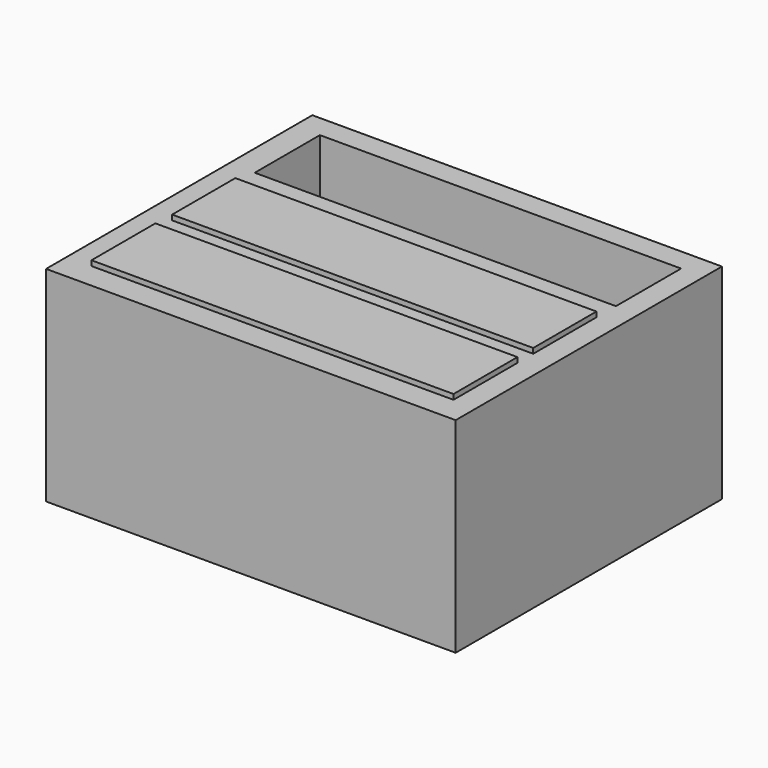
from build123d import *

# Parameters (mm, degrees)
SKETCH_W      = 800
SKETCH_H      = 400
PAD_DEPTH     = 650
SKETCH001_W   = 705.447479
SKETCH001_H   = 159.053192
POCKET_DEPTH  = 400.001
SKETCH002_W   = 696.846951
SKETCH002_H   = 149.011963
SKETCH002_W_2 = 692.598503
SKETCH002_H_2 = 175.711151
PAD001_DEPTH  = 5
SKETCH003_W   = 705.267067
SKETCH003_H   = 154.277191
SKETCH003_W_2 = 707.103642
SKETCH003_H_2 = 156.113739
PAD002_DEPTH  = 10


with BuildPart() as part:
    # Sketch → Pad (new body)
    with BuildSketch(Plane.XZ):
        with Locations((400, 200)):
            Rectangle(SKETCH_W, SKETCH_H)
    extrude(amount=PAD_DEPTH)

    # Sketch001 (on Face1 of Pad) → Pocket (cut, through all)
    with BuildSketch(Plane(origin=(0, 0, 0), x_dir=(1, 0, 0), z_dir=(0, 0, -1))):
        with Locations((402.870193, 123.735901)):
            Rectangle(SKETCH001_W, SKETCH001_H)
    extrude(amount=-POCKET_DEPTH, mode=Mode.SUBTRACT)

    # Sketch002 (on Face1 of Pocket) → Pad001 (join)
    with BuildSketch(Plane(origin=(0, 0, 0), x_dir=(1, 0, 0), z_dir=(0, 0, -1))):
        with Locations((403.497789, 310.137177)):
            Rectangle(SKETCH002_W, SKETCH002_H)
        with Locations((403.533207, 524.328995)):
            Rectangle(SKETCH002_W_2, SKETCH002_H_2)
    extrude(amount=PAD001_DEPTH)

    # Sketch003 (on Face18 of Pad001) → Pad002 (join)
    with BuildSketch(Plane(origin=(0, 0, 400), x_dir=(-1, 0, 0), z_dir=(0, 0, 1))):
        with Locations((-402.754955, 327.754989)):
            Rectangle(SKETCH003_W, SKETCH003_H)
        with Locations((-401.836668, 521.51973)):
            Rectangle(SKETCH003_W_2, SKETCH003_H_2)
    extrude(amount=PAD002_DEPTH)


solid = part.part
